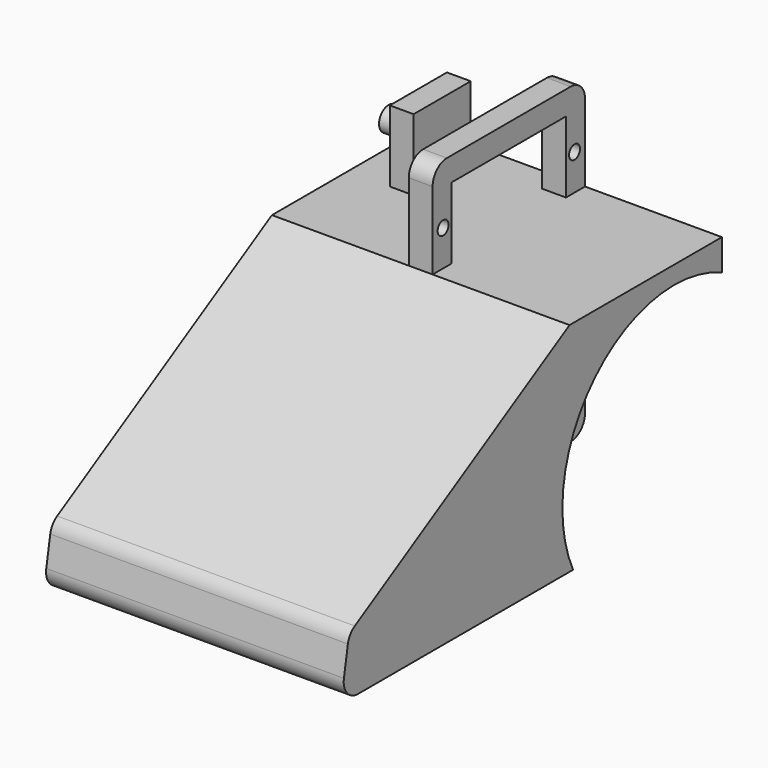
from build123d import *

# Parameters (mm, degrees)
F1_DEPTH  = 23
F0_W      = 12
F0_H      = 10
F2_DEPTH  = 19
F3_W      = 3
F3_H      = 10
F4_DEPTH  = 3
F6_DEPTH  = 2
F7_R      = 1.35
F8_DEPTH  = 3.1
F9_R      = 1.5
F9_R_2    = 1.35
F10_DEPTH = 1
F12_DEPTH = 5
F0_R      = 1.15
F13_DEPTH = 4
F16_DEPTH = 4
F17_R     = 2
F18_DEPTH = 5


with BuildPart() as f1:
    # F0 (on Right) → F1 (new body)
    with BuildSketch(Plane.YZ):
        with BuildLine():
            Line((12, -6), (-12, -6))
            Line((-12, -6), (-16, -6))
            Line((-16, -6), (-25.9322462259, -11.7637196141))
            Line((-25.9322462259, -11.7637196141), (-47.8941944105, -24.5083202449))
            Line((-47.8941944105, -24.5083202449), (-61.0953553653, -32.1690032962))
            ThreePointArc((-61.0953553653, -32.1690032962), (-62.0489693843, -33.0457447692), (-62.5440346563, -34.2428102162))
            Line((-62.5440346563, -34.2428102162), (-63.3791624813, -38.979055467))
            ThreePointArc((-63.3791624813, -38.979055467), (-62.7228725516, -41.4283628291), (-60.4247392222, -42.5))
            Line((-60.4247392222, -42.5), (-15.2661703181, -42.5))
            ThreePointArc((-15.2661703181, -42.5), (-10.6170093579, -15.8829906421), (16, -11.2338296819))
            Line((16, -11.2338296819), (16, -6))
            Line((16, -6), (12, -6))
        make_face()
    extrude(amount=F1_DEPTH)

    # F0 (on Right) → F2 (join)
    with BuildSketch(Plane.YZ):
        with BuildLine():
            Line((16, -39.5), (16, -11.2338296819))
            ThreePointArc((16, -11.2338296819), (-10.6170093579, -15.8829906421), (-15.2661703181, -42.5))
            Line((-15.2661703181, -42.5), (13, -42.5))
            ThreePointArc((13, -42.5), (15.1213203436, -41.6213203436), (16, -39.5))
        make_face()
        with Locations((6, -32.5)):
            Rectangle(F0_W, F0_H, mode=Mode.SUBTRACT)
        with BuildLine():
            Line((12, -6), (-12, -6))
            Line((-12, -6), (-16, -6))
            Line((-16, -6), (-25.9322462259, -11.7637196141))
            Line((-25.9322462259, -11.7637196141), (-47.8941944105, -24.5083202449))
            Line((-47.8941944105, -24.5083202449), (-61.0953553653, -32.1690032962))
            ThreePointArc((-61.0953553653, -32.1690032962), (-62.0489693843, -33.0457447692), (-62.5440346563, -34.2428102162))
            Line((-62.5440346563, -34.2428102162), (-63.3791624813, -38.979055467))
            ThreePointArc((-63.3791624813, -38.979055467), (-62.7228725516, -41.4283628291), (-60.4247392222, -42.5))
            Line((-60.4247392222, -42.5), (-15.2661703181, -42.5))
            ThreePointArc((-15.2661703181, -42.5), (-10.6170093579, -15.8829906421), (16, -11.2338296819))
            Line((16, -11.2338296819), (16, -6))
            Line((16, -6), (12, -6))
        make_face()
    extrude(amount=-F2_DEPTH)

    # F3 (on face) → F4 (join)
    with BuildSketch(Plane(origin=(-19, 0, 0), x_dir=(0, -1, 0), z_dir=(-1, 0, 0))):
        with BuildLine():
            Line((-16, -6), (-16, -39.5))
            ThreePointArc((-16, -39.5), (-15.1213203436, -41.6213203436), (-13, -42.5))
            Line((-13, -42.5), (60.4247392222, -42.5))
            ThreePointArc((60.4247392222, -42.5), (62.7228725516, -41.4283628291), (63.3791624813, -38.979055467))
            Line((63.3791624813, -38.979055467), (62.5440346563, -34.2428102162))
            ThreePointArc((62.5440346563, -34.2428102162), (62.0489693843, -33.0457447692), (61.0953553653, -32.1690032962))
            Line((61.0953553653, -32.1690032962), (16, -6))
            Line((16, -6), (-16, -6))
        make_face()
        Polygon((-12, -27.5), (-7.5, -27.5), (-4.5, -27.5), (0, -27.5), (0, -37.5), (-4.5, -37.5), (-7.5, -37.5), (-12, -37.5), align=None, mode=Mode.SUBTRACT)
        with Locations((-6, -32.5)):
            Rectangle(F3_W, F3_H)
    extrude(amount=F4_DEPTH)

    # F5 (on face) → F6 (join)
    with BuildSketch(Plane(origin=(-22, 0, 0), x_dir=(0, -1, 0), z_dir=(-1, 0, 0))):
        with BuildLine():
            ThreePointArc((-7.5, -32.5), (-6, -34), (-4.5, -32.5))
            ThreePointArc((-4.5, -32.5), (-6, -31), (-7.5, -32.5))
        make_face()
    extrude(amount=F6_DEPTH)

    # F7 (on face) → F8 (join)
    with BuildSketch(Plane(origin=(-24, 0, 0), x_dir=(0, -1, 0), z_dir=(-1, 0, 0))):
        with Locations((-6, -32.5)):
            Circle(F7_R)
    extrude(amount=F8_DEPTH)

    # F9 (on face) → F10 (join)
    with BuildSketch(Plane(origin=(-27.1, 0, 0), x_dir=(0, -1, 0), z_dir=(-1, 0, 0))):
        with Locations((-6, -32.5)):
            Circle(F9_R)
        with Locations((-6, -32.5)):
            Circle(F9_R_2, mode=Mode.SUBTRACT)
        with Locations((-6, -32.5)):
            Circle(F9_R_2)
    extrude(amount=F10_DEPTH)

    # F11 (on face) → F12 (join)
    with BuildSketch(Plane(origin=(-22, 0, 0), x_dir=(0, -1, 0), z_dir=(-1, 0, 0))):
        with BuildLine():
            ThreePointArc((-16, -11.2419736034), (10.6117983114, -15.8882016886), (15.2580263966, -42.5))
            Line((15.2580263966, -42.5), (60.4247392222, -42.5))
            ThreePointArc((60.4247392222, -42.5), (62.7228725516, -41.4283628291), (63.3791624813, -38.979055467))
            Line((63.3791624813, -38.979055467), (62.5440346563, -34.2428102162))
            ThreePointArc((62.5440346563, -34.2428102162), (62.0489693843, -33.0457447692), (61.0953553653, -32.1690032962))
            Line((61.0953553653, -32.1690032962), (16, -6))
            Line((16, -6), (-16, -6))
            Line((-16, -6), (-16, -11.2419736034))
        make_face()
    extrude(amount=F12_DEPTH)

    # F0 (on Right) → F13 (join)
    with BuildSketch(Plane.YZ):
        with BuildLine():
            Line((-12, -6), (-12, 6))
            Line((-12, 6), (12, 6))
            Line((12, 6), (12, -6))
            Line((12, -6), (16, -6))
            Line((16, -6), (16, 7))
            ThreePointArc((16, 7), (15.1213203436, 9.1213203436), (13, 10))
            Line((13, 10), (0, 10))
            Line((0, 10), (-13, 10))
            ThreePointArc((-13, 10), (-15.1213203436, 9.1213203436), (-16, 7))
            Line((-16, 7), (-16, -6))
            Line((-16, -6), (-12, -6))
        make_face()
        with Locations((-13.8, 0)):
            Circle(F0_R, mode=Mode.SUBTRACT)
        with Locations((13.8, 0)):
            Circle(F0_R, mode=Mode.SUBTRACT)
    extrude(amount=-F13_DEPTH)

    # F15 (on offset) → F16 (join)
    with BuildSketch(Plane.YZ.offset(-16)):
        Polygon((0, -6), (12, -6), (12, 0), (12, 6), (0, 6), align=None)
    extrude(amount=-F16_DEPTH)

    # F17 (on face) → F18 (join)
    with BuildSketch(Plane(origin=(-20, 0, 0), x_dir=(0, -1, 0), z_dir=(-1, 0, 0))):
        with Locations((-6, 0)):
            Circle(F17_R)
    extrude(amount=F18_DEPTH)


solid = f1.part
